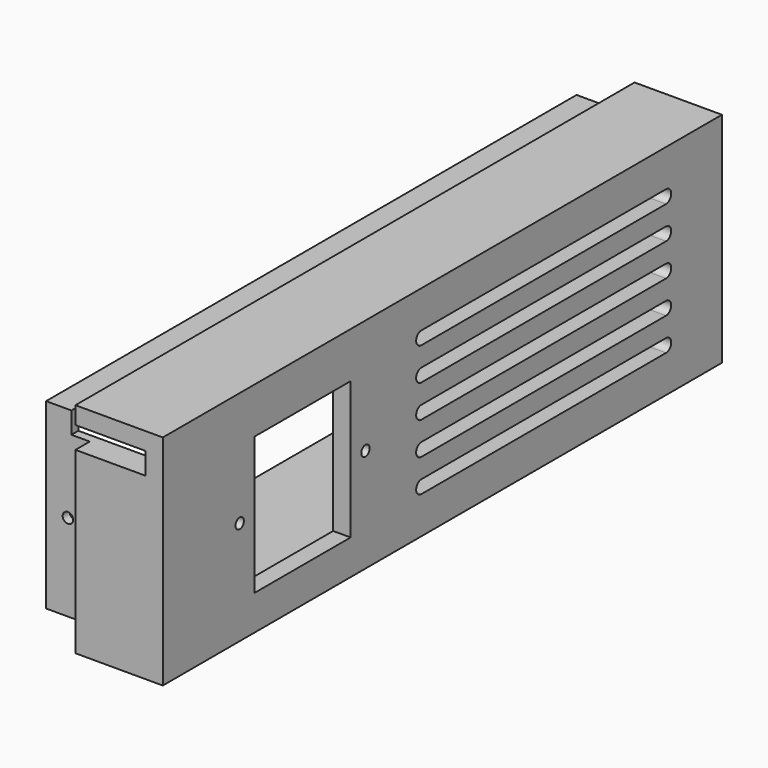
from build123d import *

# Parameters (mm, degrees)
SKETCH011_W             = 160
SKETCH011_H             = 50
SKETCH011_R             = 1.2
SKETCH011_W_2           = 27.5
SKETCH011_H_2           = 31.5
PAD004_DEPTH            = 4
SKETCH012_W             = 151.8
SKETCH012_H             = 41.8
SKETCH012_W_2           = 147.8
SKETCH012_H_2           = 37.8
PAD005_DEPTH            = 30
SKETCH013_W             = 160
SKETCH013_H             = 50
SKETCH013_W_2           = 151.8
SKETCH013_H_2           = 41.8
PAD006_DEPTH            = 20
SKETCH014_W             = 20.2
SKETCH014_H             = 5
POCKET004_DEPTH         = 27
SKETCH027_R             = 1.2
POCKET014_DEPTH         = 160.001
POCKET015_DEPTH         = 30.001
LINEARPATTERN007_COUNT  = 5
LINEARPATTERN007_PITCH  = 7.5
BODY002_PLACEMENT_ANGLE = 180


with BuildPart() as part:
    # Sketch011 → Pad004 (new body)
    with BuildSketch(Plane.YZ):
        with Locations((0, 25)):
            Rectangle(SKETCH011_W, SKETCH011_H)
        with Locations((22, 23.75)):
            Circle(SKETCH011_R, mode=Mode.SUBTRACT)
        with Locations((58, 23.75)):
            Circle(SKETCH011_R, mode=Mode.SUBTRACT)
        with Locations((40, 23.75)):
            Rectangle(SKETCH011_W_2, SKETCH011_H_2, mode=Mode.SUBTRACT)
    extrude(amount=PAD004_DEPTH)

    # Sketch012 → Pad005 (join)
    with BuildSketch(Plane.YZ):
        with Locations((0, 25)):
            Rectangle(SKETCH012_W, SKETCH012_H)
        with Locations((0, 25)):
            Rectangle(SKETCH012_W_2, SKETCH012_H_2, mode=Mode.SUBTRACT)
    extrude(amount=PAD005_DEPTH)

    # Sketch013 → Pad006 (join)
    with BuildSketch(Plane.YZ):
        with Locations((0, 25)):
            Rectangle(SKETCH013_W, SKETCH013_H)
        with Locations((0, 25)):
            Rectangle(SKETCH013_W_2, SKETCH013_H_2, mode=Mode.SUBTRACT)
    extrude(amount=PAD006_DEPTH)

    # Sketch014 (on DatumPlane) → Pocket004 (cut)
    with BuildSketch(Plane.XZ.offset(-80)):
        with Locations((14.1, 43.5)):
            Rectangle(SKETCH014_W, SKETCH014_H)
    extrude(amount=POCKET004_DEPTH, mode=Mode.SUBTRACT)

    # Sketch027 (on DatumPlane) → Pocket014 (cut, through all)
    with BuildSketch(Plane.XZ.offset(-80)):
        with Locations((25, 24)):
            Circle(SKETCH027_R)
    extrude(amount=POCKET014_DEPTH, mode=Mode.SUBTRACT)

    # Sketch028 → Pocket015 (cut, through all)
    with BuildSketch(Plane.YZ):
        with BuildLine():
            Line((6, 11.5), (-64, 11.5))
            ThreePointArc((-64, 11.5), (-65.5, 10), (-64, 8.5))
            Line((6, 8.5), (-64, 8.5))
            ThreePointArc((6, 8.5), (7.5, 10), (6, 11.5))
        make_face()
    pocket015 = extrude(amount=POCKET015_DEPTH, mode=Mode.SUBTRACT)

    # LinearPattern007: Pocket015 ×5
    with Locations(*[(0, 0, i * LINEARPATTERN007_PITCH) for i in range(1, LINEARPATTERN007_COUNT)]):
        add(pocket015, mode=Mode.SUBTRACT)


with BuildPart() as part_1:
    # Body002 placement: moved
    add(part.part.moved(Location((200, 0, -4))).rotate(Axis((200, 0, -4), (0, 0, 1)), BODY002_PLACEMENT_ANGLE))


solid = part_1.part
